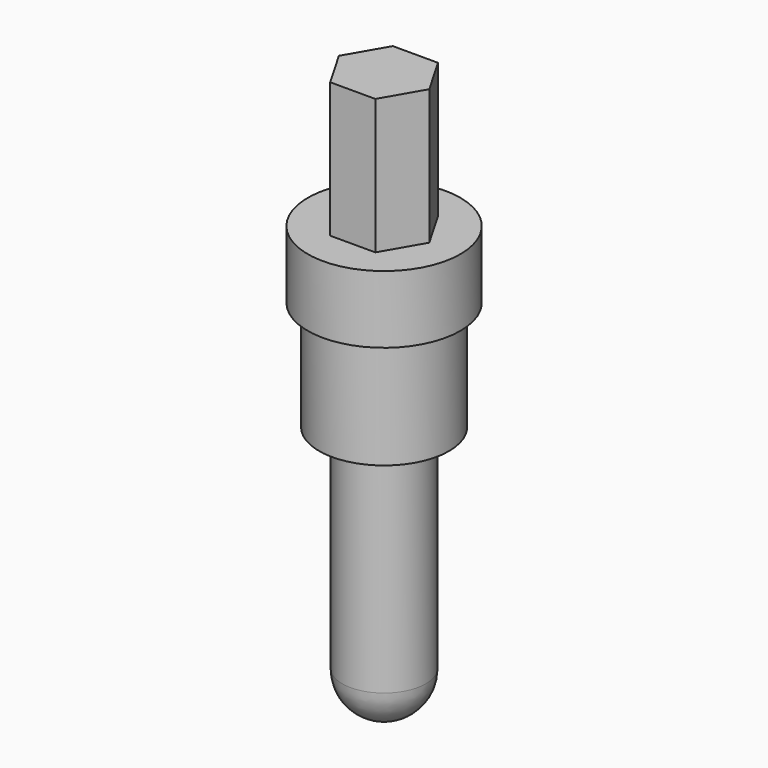
from build123d import *

# Parameters (mm, degrees)
PAD_DEPTH = 2.54


with BuildPart() as part:
    # Sketch → Revolution (revolve)
    with BuildSketch(Plane.XZ):
        with BuildLine():
            Line((0, 0), (1.435, 0))
            Line((1.435, 0), (1.435, -1.27))
            Line((1.22, -1.27), (1.435, -1.27))
            Line((1.22, -1.27), (1.22, -3.33))
            Line((0.785, -3.33), (1.22, -3.33))
            Line((0.785, -3.33), (0.785, -7.32302))
            ThreePointArc((0, -8.11), (0.555199, -7.878799), (0.785, -7.32302))
            Line((0, 0), (0, -8.11))
        make_face()
    revolve(axis=Axis((0, 0, 0), (0, 0, 1)))

    # Sketch001 (on Face1 of Revolution) → Pad (new body)
    with BuildSketch(Plane(origin=(0, 0, 0), x_dir=(-1, 0, 0), z_dir=(0, 0, 1))):
        Polygon((0.425, 0.736122), (-0.425, 0.736122), (-0.85, 0), (-0.425, -0.736122), (0.425, -0.736122), (0.85, 0), align=None)
    extrude(amount=PAD_DEPTH)


solid = part.part
